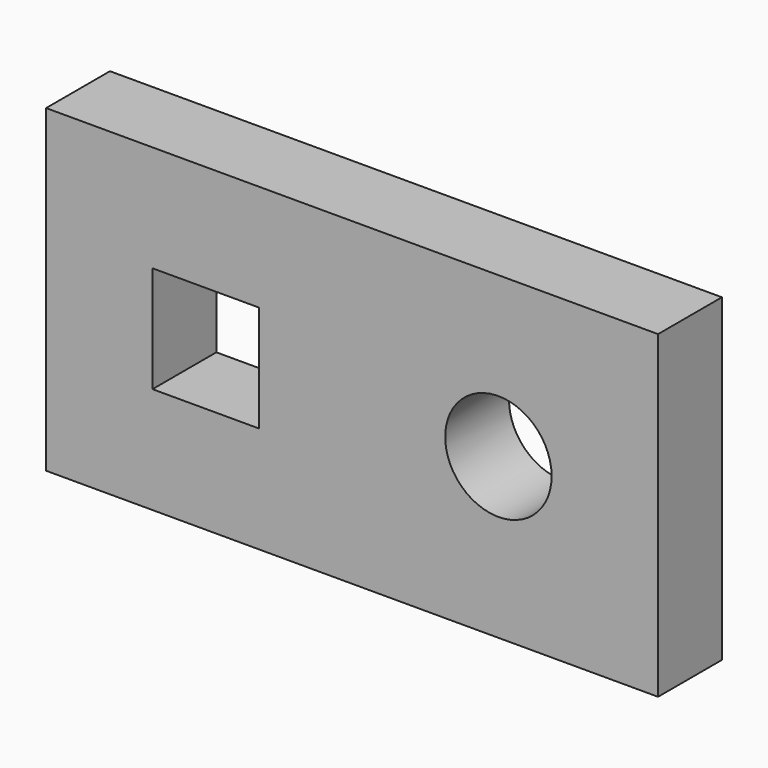
from build123d import *

# Parameters (mm, degrees)
F0_W     = 146.05
F0_H     = 76.2
F1_DEPTH = 19.05
F2_R     = 12.7
F2_W     = 25.4
F2_H     = 25.4
F3_DEPTH = 19.05


with BuildPart() as f1:
    # F0 (on Front) → F1 (new body)
    with BuildSketch(Plane.XZ):
        with Locations((12.570907, 38.1)):
            Rectangle(F0_W, F0_H)
    extrude(amount=F1_DEPTH)

    # F2 (on face) → F3 (cut)
    with BuildSketch(Plane.XZ.offset(19.05)):
        with Locations((47.495907, 38.1)):
            Circle(F2_R)
        with Locations((-22.354093, 38.1)):
            Rectangle(F2_W, F2_H)
    extrude(amount=-F3_DEPTH, mode=Mode.SUBTRACT)


solid = f1.part
